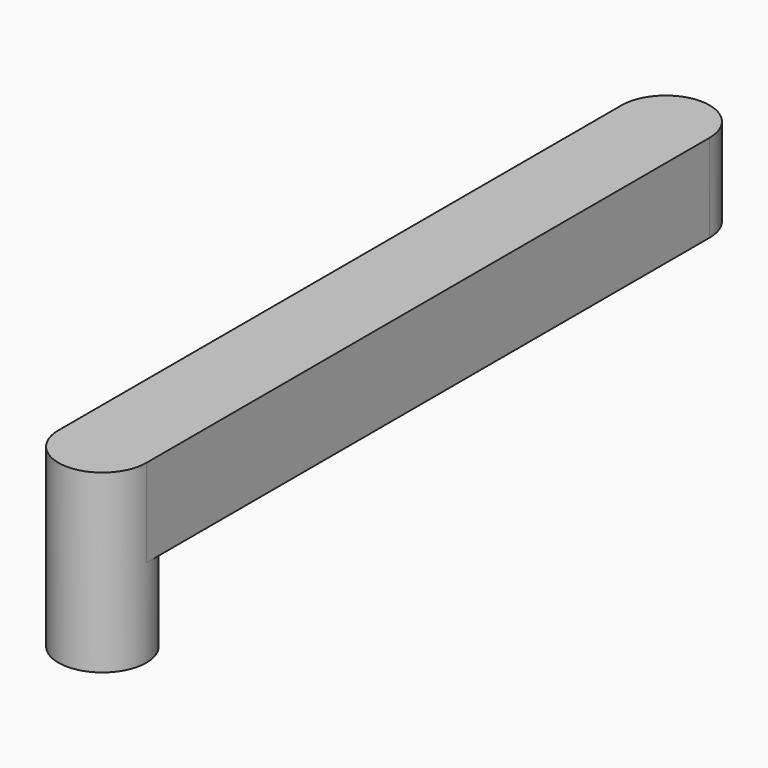
from build123d import *

# Parameters (mm, degrees)
F1_DEPTH = 3.175
F2_DEPTH = 3.175


with BuildPart() as f1:
    # F0 (on Top) → F1 (new body)
    with BuildSketch(Plane.XY):
        with BuildLine():
            ThreePointArc((1.5875, 12.7), (0, 11.1125), (-1.5875, 12.7))
            Line((-1.5875, 12.7), (-1.5875, -12.7))
            ThreePointArc((-1.5875, -12.7), (0, -11.1125), (1.5875, -12.7))
            Line((1.5875, -12.7), (1.5875, 12.7))
        make_face()
        with BuildLine():
            ThreePointArc((1.5875, -12.7), (0, -11.1125), (-1.5875, -12.7))
            Line((-1.5875, -12.7), (1.5875, -12.7))
        make_face()
        with BuildLine():
            Line((1.5875, -12.7), (-1.5875, -12.7))
            ThreePointArc((-1.5875, -12.7), (0, -14.2875), (1.5875, -12.7))
        make_face()
        with BuildLine():
            Line((1.5875, -12.7), (-1.5875, -12.7))
            ThreePointArc((-1.5875, -12.7), (0, -14.2875), (1.5875, -12.7))
        make_face()
        with BuildLine():
            ThreePointArc((1.5875, 12.7), (0, 14.2875), (-1.5875, 12.7))
            Line((-1.5875, 12.7), (1.5875, 12.7))
        make_face()
        with BuildLine():
            ThreePointArc((1.5875, 12.7), (0, 14.2875), (-1.5875, 12.7))
            Line((-1.5875, 12.7), (1.5875, 12.7))
        make_face()
        with BuildLine():
            Line((1.5875, 12.7), (-1.5875, 12.7))
            ThreePointArc((-1.5875, 12.7), (0, 11.1125), (1.5875, 12.7))
        make_face()
    extrude(amount=F1_DEPTH)

    # F0 (on Top) → F2 (join)
    with BuildSketch(Plane.XY):
        with BuildLine():
            Line((1.5875, -12.7), (-1.5875, -12.7))
            ThreePointArc((-1.5875, -12.7), (0, -14.2875), (1.5875, -12.7))
        make_face()
        with BuildLine():
            ThreePointArc((1.5875, -12.7), (0, -11.1125), (-1.5875, -12.7))
            Line((-1.5875, -12.7), (1.5875, -12.7))
        make_face()
    extrude(amount=-F2_DEPTH)


solid = f1.part
